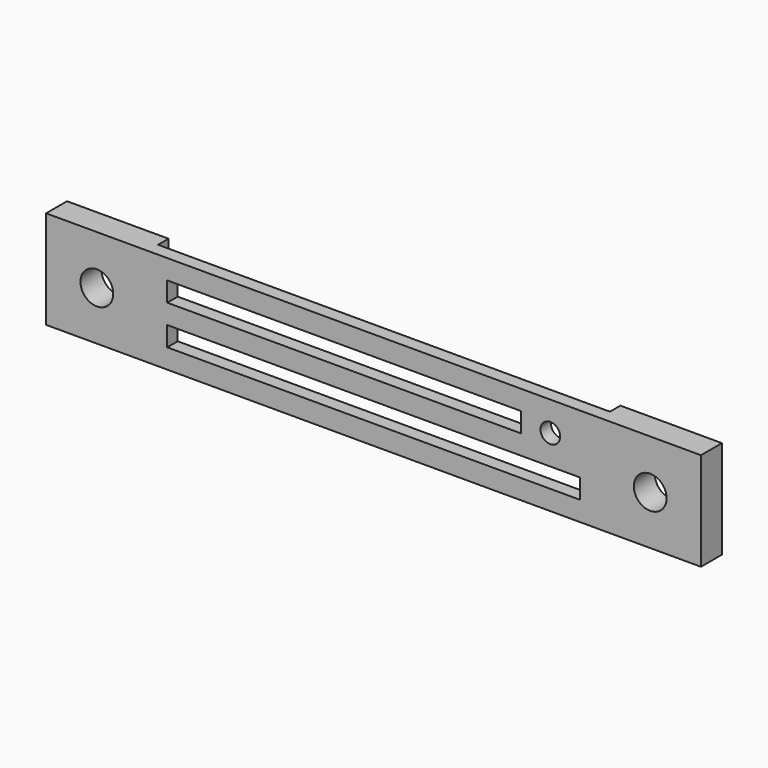
from build123d import *

# Parameters (mm, degrees)
F0_W      = 100
F0_H      = 15
F0_W_2    = 63
F0_H_2    = 3
F1_DEPTH  = 4
F2_W      = 69
F2_H      = 15
F3_DEPTH  = 2
F4_R      = 2.5
F5_DEPTH  = 25
F6_R      = 2.5
F7_DEPTH  = 25
F8_W      = 9
F8_H      = 3
F9_DEPTH  = 2
F10_R     = 1.5
F11_DEPTH = 25


with BuildPart() as f1:
    # F0 (on Front) → F1 (new body)
    with BuildSketch(Plane.XZ):
        Rectangle(F0_W, F0_H)
        with Locations((0, -3)):
            Rectangle(F0_W_2, F0_H_2, mode=Mode.SUBTRACT)
        with Locations((0, 3)):
            Rectangle(F0_W_2, F0_H_2, mode=Mode.SUBTRACT)
    extrude(amount=F1_DEPTH)

    # F2 (on face) → F3 (cut)
    with BuildSketch(Plane(origin=(0, 0, 0), x_dir=(-1, 0, 0), z_dir=(0, 1, 0))):
        Rectangle(F2_W, F2_H)
    extrude(amount=-F3_DEPTH, mode=Mode.SUBTRACT)

    # F4 (on face) → F5 (cut)
    with BuildSketch(Plane(origin=(0, 0, 0), x_dir=(-1, 0, 0), z_dir=(0, 1, 0))):
        with Locations((-42.25, 0)):
            Circle(F4_R)
    extrude(amount=-F5_DEPTH, mode=Mode.SUBTRACT)

    # F6 (on face) → F7 (cut)
    with BuildSketch(Plane(origin=(0, 0, 0), x_dir=(-1, 0, 0), z_dir=(0, 1, 0))):
        with Locations((42.25, 0)):
            Circle(F6_R)
    extrude(amount=-F7_DEPTH, mode=Mode.SUBTRACT)

    # F8 (on face) → F9 (join)
    with BuildSketch(Plane.XZ.offset(4)):
        with Locations((27, 3)):
            Rectangle(F8_W, F8_H)
    extrude(amount=-F9_DEPTH)

    # F10 (on face) → F11 (cut)
    with BuildSketch(Plane.XZ.offset(4)):
        with Locations((27, 3)):
            Circle(F10_R)
    extrude(amount=-F11_DEPTH, mode=Mode.SUBTRACT)


solid = f1.part
